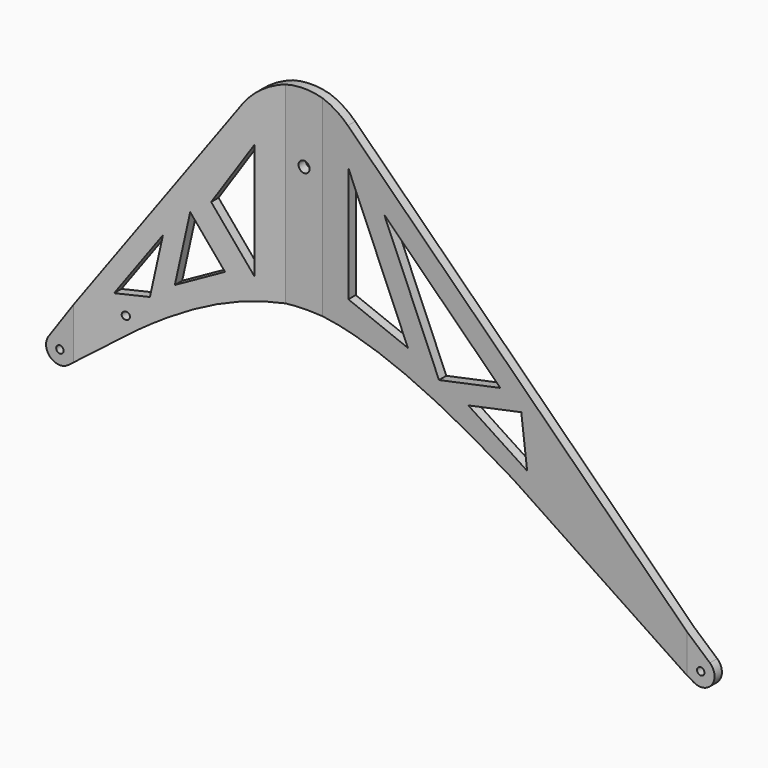
from build123d import *

# Parameters (mm, degrees)
F1_W     = 30
F1_H     = 10
F2_DEPTH = 340
F3_DEPTH = 100
F5_DEPTH = 76
F6_R     = 4
F6_R_2   = 6
F7_DEPTH = 66


with BuildPart() as f2:
    # F1 (on Top) → F2 (new body)
    with BuildSketch(Plane.XY):
        Polygon((0, 0), (-20, 0), (-20, -10), (0, -10), (20, -10), (20, 0), align=None)
        Polygon((-20, -10), (-20, 0), (-223.64854, -33), (-223.64854, -43), align=None)
        with Locations((-238.64854, -38)):
            Rectangle(F1_W, F1_H)
        Polygon((442.00493, -33), (20, 0), (20, -10), (442.00493, -43), align=None)
        with Locations((457.00493, -38)):
            Rectangle(F1_W, F1_H)
    extrude(amount=-F2_DEPTH)

    # F1 (on Top) → F3 (join)
    with BuildSketch(Plane.XY):
        Polygon((0, 0), (-20, 0), (-20, -10), (0, -10), (20, -10), (20, 0), align=None)
        Polygon((-20, -10), (-20, 0), (-223.64854, -33), (-223.64854, -43), align=None)
        with Locations((-238.64854, -38)):
            Rectangle(F1_W, F1_H)
        Polygon((442.00493, -33), (20, 0), (20, -10), (442.00493, -43), align=None)
        with Locations((457.00493, -38)):
            Rectangle(F1_W, F1_H)
    extrude(amount=F3_DEPTH)

    # F4 (on Front) → F5 (intersect, symmetric)
    with BuildSketch(Plane.XZ):
        with BuildLine():
            ThreePointArc((-250.9718022583, -230.0965111685), (-249.006915225, -249.4976876834), (-229.5356153331, -250.563010045))
            ThreePointArc((-229.5356153331, -250.563010045), (-225.2006047987, -245.2933166844), (-223.6485386505, -238.6485386505))
            ThreePointArc((-223.6485386505, -238.6485386505), (-234.1679669301, -224.3333552056), (-250.9718022583, -230.0965111685))
        make_face()
        with BuildLine():
            add(Edge.make_bspline(
                [(-229.5356153331, -250.563010045), (-208.7207010553, -234.6424785008), (-187.0701685552, -217.0301430269), (-164.0481391717, -200.4741451059)],
                knots=[0, 0, 0, 0, 0.1373195068, 0.1373195068, 0.1373195068, 0.1373195068], degree=3))
            Line((-229.5356153331, -250.563010045), (-164.0481391717, -200.4741451059))
        make_face()
        with BuildLine():
            ThreePointArc((-223.6485386505, -238.6485386505), (-225.2006047987, -245.2933166844), (-229.5356153331, -250.563010045))
            add(Edge.make_bspline(
                [(-229.5356153331, -250.563010045), (-208.7207010553, -234.6424785008), (-187.0701685552, -217.0301430269), (-164.0481391717, -200.4741451059)],
                knots=[0, 0, 0, 0, 0.1373195068, 0.1373195068, 0.1373195068, 0.1373195068], degree=3))
            Line((-164.0481391717, -200.4741451059), (0, -75))
            ThreePointArc((0, -75), (-66.4530293795, -34.7706037666), (-61.6163187638, 42.7601363655))
            Line((-61.6163187638, 42.7601363655), (-250.9718022583, -230.0965111685))
            ThreePointArc((-250.9718022583, -230.0965111685), (-234.1679669301, -224.3333552056), (-223.6485386505, -238.6485386505))
        make_face()
        with BuildLine():
            Line((0, -75), (-164.0481391717, -200.4741451059))
            add(Edge.make_bspline(
                [(-164.0481391717, -200.4741451059), (-116.7152354778, -166.4352929221), (-4.1014041633, -103.751655246), (155.4809175381, -168.4276528716), (240.7432263876, -213.1721002441)],
                knots=[0.1373195068, 0.1373195068, 0.1373195068, 0.1373195068, 0.4196460942, 0.7357326781, 0.7357326781, 0.7357326781, 0.7357326781], degree=3))
            Line((240.7432263876, -213.1721002441), (0, -75))
        make_face()
        with BuildLine():
            ThreePointArc((49.3759786376, 56.4536334843), (-9.1833788682, 74.4356470555), (-61.6163187638, 42.7601363655))
            ThreePointArc((-61.6163187638, 42.7601363655), (-66.4530293795, -34.7706037666), (0, -75))
            ThreePointArc((0, -75), (53.033008589, -53.033008589), (75, 0))
            ThreePointArc((75, 0), (68.2942105812, 30.9983999763), (49.3759786376, 56.4536334843))
        make_face()
        with BuildLine():
            ThreePointArc((75, 0), (53.033008589, -53.033008589), (0, -75))
            Line((0, -75), (240.7432263876, -213.1721002441))
            add(Edge.make_bspline(
                [(240.7432263876, -213.1721002441), (312.0276249141, -250.5811390256), (383.9898125383, -295.3870059685), (449.5382273905, -333.0078449167)],
                knots=[0.7357326781, 0.7357326781, 0.7357326781, 0.7357326781, 1, 1, 1, 1], degree=3))
            ThreePointArc((449.5382273905, -333.0078449167), (444.7952538382, -311.2848606652), (466.8801220688, -308.7075678715))
            Line((466.8801220688, -308.7075678715), (49.3759786376, 56.4536334843))
            ThreePointArc((49.3759786376, 56.4536334843), (68.2942105812, 30.9983999763), (75, 0))
        make_face()
        with BuildLine():
            add(Edge.make_bspline(
                [(240.7432263876, -213.1721002441), (312.0276249141, -250.5811390256), (383.9898125383, -295.3870059685), (449.5382273905, -333.0078449167)],
                knots=[0.7357326781, 0.7357326781, 0.7357326781, 0.7357326781, 1, 1, 1, 1], degree=3))
            Line((240.7432263876, -213.1721002441), (449.5382273905, -333.0078449167))
        make_face()
        with BuildLine():
            ThreePointArc((466.8801220688, -308.7075678715), (444.7952538382, -311.2848606652), (449.5382273905, -333.0078449167))
            ThreePointArc((449.5382273905, -333.0078449167), (464.521558007, -332.979057912), (472.0049255088, -319.9982938402))
            ThreePointArc((472.0049255088, -319.9982938402), (470.6637678536, -313.7986143485), (466.8801220688, -308.7075678715))
        make_face()
    extrude(amount=F5_DEPTH, both=True, mode=Mode.INTERSECT)

    # F6 (on face) → F7 (cut, symmetric)
    with BuildSketch(Plane.XZ.offset(10)):
        Polygon((-50, -118.8666767037), (-50, 6.8798678522), (-91.5673471808, -58.5868135927), align=None)
        Polygon((-126.4676634488, -146.9804479722), (-78.2616292159, -121.9207695), (-111.7079214913, -73.417844568), align=None)
        Polygon((-150.4108945671, -164.6469025725), (-137.8857839916, -102.2217094685), (-184.8640607304, -169.9162639715), align=None)
        Polygon((50, 16.0521292518), (50, -109.3419641256), (118.974648416, -131.2328726053), align=None)
        Polygon((225.9725652657, -131.215947327), (91.4881845235, -13.5920175816), (154.9125586599, -149.0252423531), align=None)
        Polygon((250.1992884028, -145.7627206944), (188.8613105429, -161.1354485647), (256.9922346805, -199.3553946004), align=None)
        with Locations((-238.6485386505, -238.6485386505)):
            Circle(F6_R)
        with Locations((457.0049255088, -319.9982938402)):
            Circle(F6_R)
        Circle(F6_R_2)
        with Locations((-173.5450253277, -188.5422087565)):
            Circle(F6_R)
    extrude(amount=F7_DEPTH, both=True, mode=Mode.SUBTRACT)


solid = f2.part
